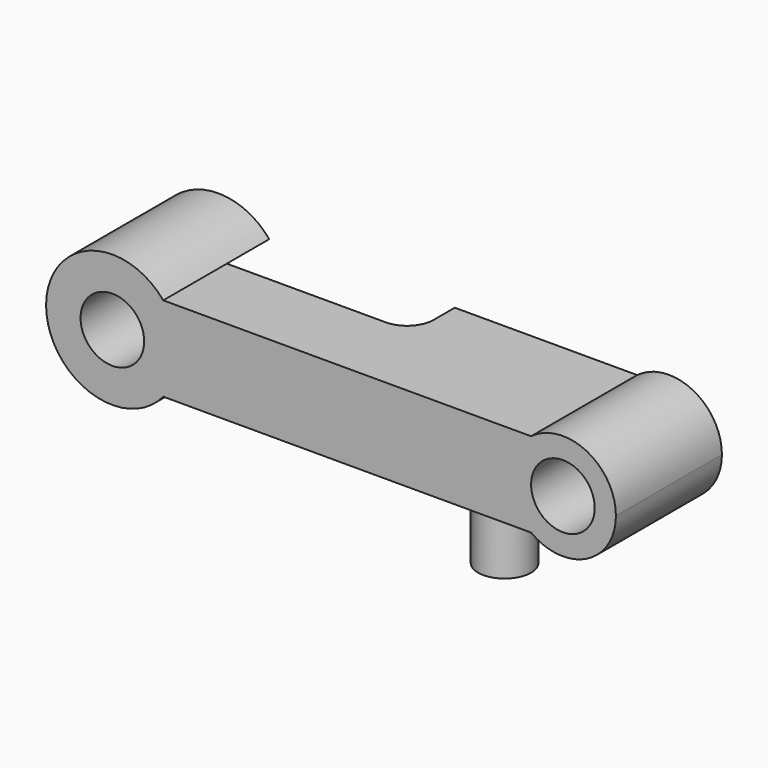
from build123d import *

# Parameters (mm, degrees)
F0_R     = 6
F1_DEPTH = 25
F2_W     = 35
F2_H     = 10
F3_DEPTH = 20.501
F5_DEPTH = 12.5
F6_R     = 5
F7_R     = 5
F8_DEPTH = 15


with BuildPart() as f1:
    # F0 (on Front) → F1 (new body)
    with BuildSketch(Plane.XZ):
        with BuildLine():
            ThreePointArc((9.604686, -8), (11.753905, -4.253905), (12.5, 0))
            ThreePointArc((12.5, 0), (11.753905, 4.253905), (9.604686, 8))
            ThreePointArc((9.604686, 8), (-12.5, 0), (9.604686, -8))
        make_face()
        Circle(F0_R, mode=Mode.SUBTRACT)
        with BuildLine():
            ThreePointArc((9.604686, 8), (11.753905, 4.253905), (12.5, 0))
            ThreePointArc((12.5, 0), (11.753905, -4.253905), (9.604686, -8))
            Line((9.604686, -8), (79, -8))
            ThreePointArc((79, -8), (75, 0), (79, 8))
            Line((79, 8), (9.604686, 8))
        make_face()
        with BuildLine():
            ThreePointArc((95, 0), (89.472136, 8.944272), (79, 8))
            ThreePointArc((79, 8), (75, 0), (79, -8))
            ThreePointArc((79, -8), (89.472136, -8.944272), (95, 0))
        make_face()
        with Locations((85, 0)):
            Circle(F0_R, mode=Mode.SUBTRACT)
    extrude(amount=F1_DEPTH)

    # F2 (on face) → F3 (cut, through all)
    with BuildSketch(Plane.XY.offset(8)):
        with Locations((27.104686, -5)):
            Rectangle(F2_W, F2_H)
    extrude(amount=-F3_DEPTH, mode=Mode.SUBTRACT)

    # F4 (on face) → F5 (cut, symmetric)
    with BuildSketch(Plane.YZ.offset(9.604686)):
        Polygon((0, 8), (-10, 8), (0, -8), align=None)
    extrude(amount=F5_DEPTH, both=True, mode=Mode.SUBTRACT)

    # F6
    f6_edges = [f1.edges().sort_by_distance(p)[0] for p in [
        (44.604686, -10, 0),
    ]]
    fillet(f6_edges, radius=F6_R)

    # F7 (on face) → F8 (join)
    with BuildSketch(Plane(origin=(0, 0, -8), x_dir=(1, 0, 0), z_dir=(0, 0, -1))):
        with Locations((64, 12.5)):
            Circle(F7_R)
    extrude(amount=F8_DEPTH)


solid = f1.part
